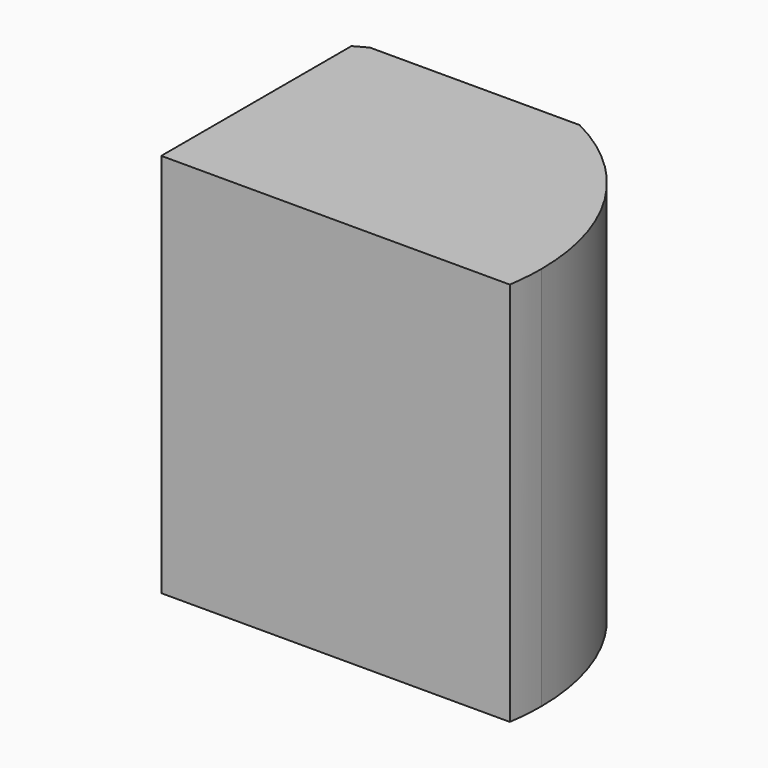
from build123d import *

# Parameters (mm, degrees)
F1_DEPTH = 58.42


with BuildPart() as f1:
    # F0 (on Top) → F1 (new body)
    with BuildSketch(Plane.XY):
        with BuildLine():
            Line((-20.150693, -5.465834), (32.733693, -5.465834))
            ThreePointArc((32.733693, -5.465834), (33.051588, -2.74113), (33.157765, 0))
            ThreePointArc((33.157765, 0), (27.878729, 18.608382), (13.614477, 31.672504))
            Line((13.614477, 31.672504), (-18.171751, 31.672504))
            ThreePointArc((-18.171751, 31.672504), (-19.169745, 31.15171), (-20.150693, 30.59948))
            Line((-20.150693, 30.59948), (-20.150693, -5.465834))
        make_face()
    extrude(amount=-F1_DEPTH)


solid = f1.part
